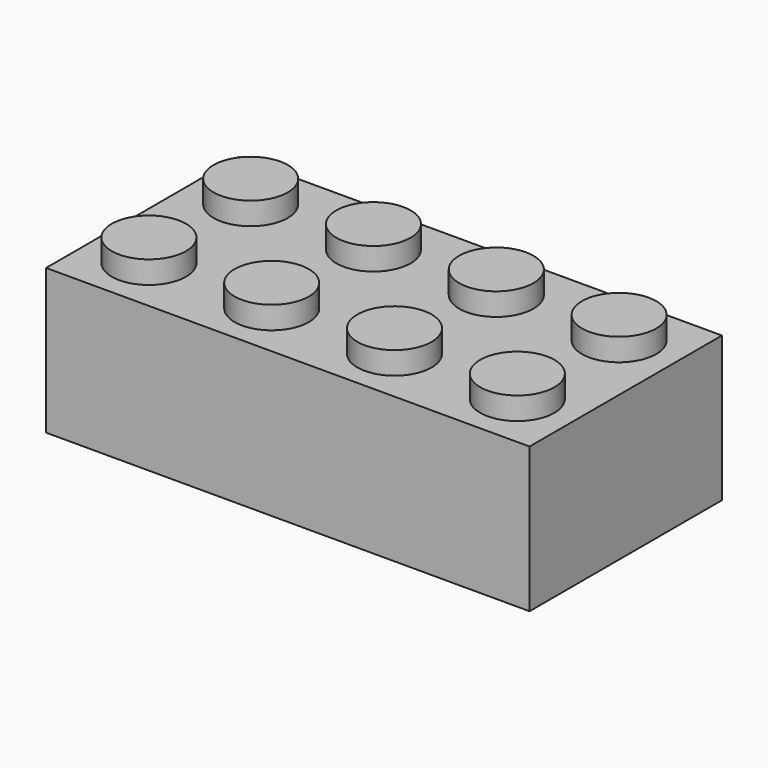
from build123d import *

# Parameters (mm, degrees)
F0_W     = 31.77
F0_H     = 15.8
F0_R     = 3.215
F0_R_2   = 2.325
F1_DEPTH = 9.53
F2_DEPTH = 8.39
F3_DEPTH = 1.17
F4_R     = 2.44
F5_DEPTH = 1.48


with BuildPart() as f1:
    # F0 (on Top) → F1 (new body)
    with BuildSketch(Plane.XY):
        with Locations((2.730887816, 14.921668646)):
            Rectangle(F0_W, F0_H)
        Polygon((2.360887816, 8.191668646), (-11.984112184, 8.191668646), (-11.984112184, 21.651668646), (2.360887816, 21.651668646), (3.100887816, 21.651668646), (17.445887816, 21.651668646), (17.445887816, 8.191668646), (3.100887816, 8.191668646), align=None, mode=Mode.SUBTRACT)
        with BuildLine():
            Line((-11.984112184, 21.651668646), (-11.984112184, 8.191668646))
            Line((-11.984112184, 8.191668646), (2.360887816, 8.191668646))
            Line((2.360887816, 8.191668646), (2.360887816, 11.7230304386))
            ThreePointArc((2.360887816, 11.7230304386), (-0.484112184, 14.916668646), (2.360887816, 18.1103068535))
            Line((2.360887816, 18.1103068535), (2.360887816, 21.651668646))
            Line((2.360887816, 21.651668646), (-11.984112184, 21.651668646))
        make_face()
        with Locations((-5.239112184, 14.916668646)):
            Circle(F0_R, mode=Mode.SUBTRACT)
        with BuildLine():
            Line((3.100887816, 11.7230304386), (3.100887816, 8.191668646))
            Line((3.100887816, 8.191668646), (17.445887816, 8.191668646))
            Line((17.445887816, 8.191668646), (17.445887816, 21.651668646))
            Line((17.445887816, 21.651668646), (3.100887816, 21.651668646))
            Line((3.100887816, 21.651668646), (3.100887816, 18.1103068535))
            ThreePointArc((3.100887816, 18.1103068535), (5.1314893031, 17.0552049445), (5.945887816, 14.916668646))
            ThreePointArc((5.945887816, 14.916668646), (5.1314893031, 12.7781323475), (3.100887816, 11.7230304386))
        make_face()
        with Locations((10.700887816, 14.916668646)):
            Circle(F0_R, mode=Mode.SUBTRACT)
        with BuildLine():
            ThreePointArc((2.360887816, 18.1103068535), (-0.484112184, 14.916668646), (2.360887816, 11.7230304386))
            ThreePointArc((2.360887816, 11.7230304386), (2.730887816, 11.701668646), (3.100887816, 11.7230304386))
            ThreePointArc((3.100887816, 11.7230304386), (5.1314893031, 12.7781323475), (5.945887816, 14.916668646))
            ThreePointArc((5.945887816, 14.916668646), (5.1314893031, 17.0552049445), (3.100887816, 18.1103068535))
            ThreePointArc((3.100887816, 18.1103068535), (2.730887816, 18.131668646), (2.360887816, 18.1103068535))
        make_face()
        with Locations((2.730887816, 14.916668646)):
            Circle(F0_R_2, mode=Mode.SUBTRACT)
        with Locations((10.700887816, 14.916668646)):
            Circle(F0_R)
        with Locations((10.700887816, 14.916668646)):
            Circle(F0_R_2, mode=Mode.SUBTRACT)
        with Locations((-5.239112184, 14.916668646)):
            Circle(F0_R)
        with Locations((-5.239112184, 14.916668646)):
            Circle(F0_R_2, mode=Mode.SUBTRACT)
        with Locations((10.700887816, 14.916668646)):
            Circle(F0_R_2)
        with Locations((-5.239112184, 14.916668646)):
            Circle(F0_R_2)
        with Locations((2.730887816, 14.916668646)):
            Circle(F0_R_2)
        with BuildLine():
            Line((3.100887816, 21.651668646), (2.360887816, 21.651668646))
            Line((2.360887816, 21.651668646), (2.360887816, 18.1103068535))
            ThreePointArc((2.360887816, 18.1103068535), (2.730887816, 18.131668646), (3.100887816, 18.1103068535))
            Line((3.100887816, 18.1103068535), (3.100887816, 21.651668646))
        make_face()
        with BuildLine():
            Line((2.360887816, 11.7230304386), (2.360887816, 8.191668646))
            Line((2.360887816, 8.191668646), (3.100887816, 8.191668646))
            Line((3.100887816, 8.191668646), (3.100887816, 11.7230304386))
            ThreePointArc((3.100887816, 11.7230304386), (2.730887816, 11.701668646), (2.360887816, 11.7230304386))
        make_face()
    extrude(amount=F1_DEPTH)

    # F0 (on Top) → F2 (cut)
    with BuildSketch(Plane.XY):
        with BuildLine():
            Line((-11.984112184, 21.651668646), (-11.984112184, 8.191668646))
            Line((-11.984112184, 8.191668646), (2.360887816, 8.191668646))
            Line((2.360887816, 8.191668646), (2.360887816, 11.7230304386))
            ThreePointArc((2.360887816, 11.7230304386), (-0.484112184, 14.916668646), (2.360887816, 18.1103068535))
            Line((2.360887816, 18.1103068535), (2.360887816, 21.651668646))
            Line((2.360887816, 21.651668646), (-11.984112184, 21.651668646))
        make_face()
        with Locations((-5.239112184, 14.916668646)):
            Circle(F0_R, mode=Mode.SUBTRACT)
        with BuildLine():
            Line((3.100887816, 11.7230304386), (3.100887816, 8.191668646))
            Line((3.100887816, 8.191668646), (17.445887816, 8.191668646))
            Line((17.445887816, 8.191668646), (17.445887816, 21.651668646))
            Line((17.445887816, 21.651668646), (3.100887816, 21.651668646))
            Line((3.100887816, 21.651668646), (3.100887816, 18.1103068535))
            ThreePointArc((3.100887816, 18.1103068535), (5.1314893031, 17.0552049445), (5.945887816, 14.916668646))
            ThreePointArc((5.945887816, 14.916668646), (5.1314893031, 12.7781323475), (3.100887816, 11.7230304386))
        make_face()
        with Locations((10.700887816, 14.916668646)):
            Circle(F0_R, mode=Mode.SUBTRACT)
        with Locations((10.700887816, 14.916668646)):
            Circle(F0_R_2)
        with Locations((2.730887816, 14.916668646)):
            Circle(F0_R_2)
        with Locations((-5.239112184, 14.916668646)):
            Circle(F0_R_2)
    extrude(amount=F2_DEPTH, mode=Mode.SUBTRACT)

    # F0 (on Top) → F3 (cut)
    with BuildSketch(Plane.XY):
        with BuildLine():
            Line((2.360887816, 11.7230304386), (2.360887816, 8.191668646))
            Line((2.360887816, 8.191668646), (3.100887816, 8.191668646))
            Line((3.100887816, 8.191668646), (3.100887816, 11.7230304386))
            ThreePointArc((3.100887816, 11.7230304386), (2.730887816, 11.701668646), (2.360887816, 11.7230304386))
        make_face()
        with BuildLine():
            Line((3.100887816, 21.651668646), (2.360887816, 21.651668646))
            Line((2.360887816, 21.651668646), (2.360887816, 18.1103068535))
            ThreePointArc((2.360887816, 18.1103068535), (2.730887816, 18.131668646), (3.100887816, 18.1103068535))
            Line((3.100887816, 18.1103068535), (3.100887816, 21.651668646))
        make_face()
    extrude(amount=F3_DEPTH, mode=Mode.SUBTRACT)

    # F4 (on face) → F5 (join)
    with BuildSketch(Plane.XY.offset(9.53)):
        with Locations((-9.374112184, 19.101668646)):
            Circle(F4_R)
        with Locations((-9.374112184, 10.741668646)):
            Circle(F4_R)
        with Locations((-1.304112184, 19.101668646)):
            Circle(F4_R)
        with Locations((-1.304112184, 10.741668646)):
            Circle(F4_R)
        with Locations((6.765887816, 19.101668646)):
            Circle(F4_R)
        with Locations((6.765887816, 10.741668646)):
            Circle(F4_R)
        with Locations((14.835887816, 19.101668646)):
            Circle(F4_R)
        with Locations((14.835887816, 10.741668646)):
            Circle(F4_R)
    extrude(amount=F5_DEPTH)


solid = f1.part
